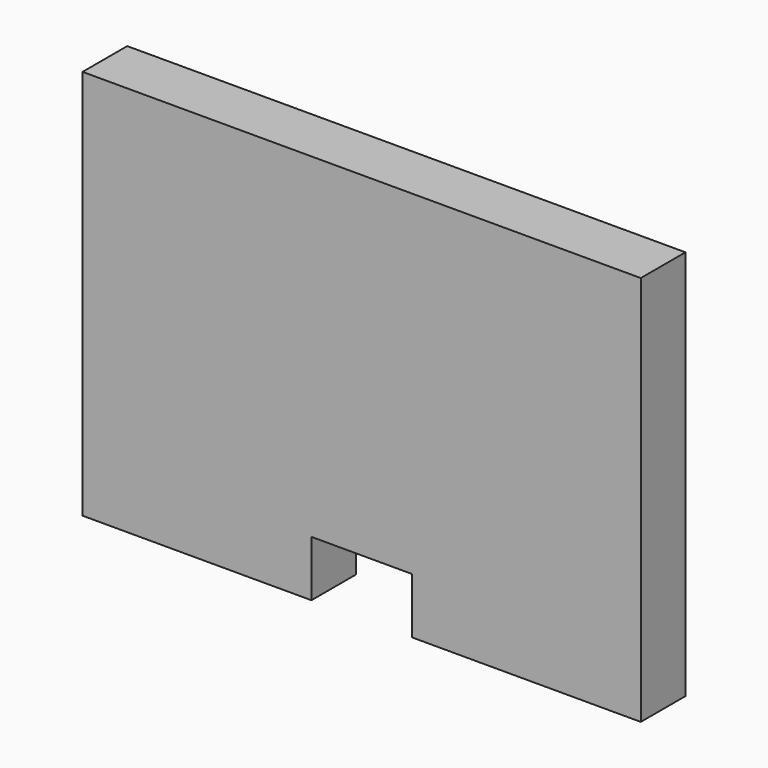
from build123d import *

# Parameters (mm, degrees)
F0_W     = 100
F0_H     = 70
F1_DEPTH = 10
F3_DEPTH = 10


with BuildPart() as f1:
    # F0 (on Front) → F1 (new body)
    with BuildSketch(Plane.XZ):
        with Locations((0, 35)):
            Rectangle(F0_W, F0_H)
    extrude(amount=F1_DEPTH)

    # F2 (on face) → F3 (cut, through all)
    with BuildSketch(Plane(origin=(0, 0, 0), x_dir=(-1, 0, 0), z_dir=(0, 1, 0))):
        with BuildLine():
            ThreePointArc((-3.250213, 6.5), (-3.603767, 6.646447), (-3.750213, 7))
            Line((-3.750213, 7), (-3.750213, 8.538201))
            ThreePointArc((-3.750213, 8.538201), (-3.72833, 8.684503), (-3.664596, 8.817999))
            Line((-3.664596, 8.817999), (-3.015177, 9.779797))
            ThreePointArc((-3.015177, 9.779797), (-2.835422, 9.941531), (-2.600794, 10))
            Line((-2.600794, 10), (-9, 10))
            Line((-9, 10), (-9, 0))
            Line((-9, 0), (9, 0))
            Line((9, 0), (9, 10))
            Line((9, 10), (2.400367, 10))
            ThreePointArc((2.400367, 10), (2.634996, 9.941531), (2.814751, 9.779797))
            Line((2.814751, 9.779797), (3.46417, 8.817999))
            ThreePointArc((3.46417, 8.817999), (3.527904, 8.684503), (3.549787, 8.538201))
            Line((3.549787, 8.538201), (3.549787, 7))
            ThreePointArc((3.549787, 7), (3.40334, 6.646447), (3.049787, 6.5))
            Line((3.049787, 6.5), (-3.250213, 6.5))
        make_face()
        with BuildLine():
            Line((-3.750213, 8.538201), (-3.750213, 7))
            ThreePointArc((-3.750213, 7), (-3.603767, 6.646447), (-3.250213, 6.5))
            Line((-3.250213, 6.5), (3.049787, 6.5))
            ThreePointArc((3.049787, 6.5), (3.40334, 6.646447), (3.549787, 7))
            Line((3.549787, 7), (3.549787, 8.538201))
            ThreePointArc((3.549787, 8.538201), (3.527904, 8.684503), (3.46417, 8.817999))
            Line((3.46417, 8.817999), (2.814751, 9.779797))
            ThreePointArc((2.814751, 9.779797), (2.634996, 9.941531), (2.400367, 10))
            Line((2.400367, 10), (0, 10))
            Line((0, 10), (-2.600794, 10))
            ThreePointArc((-2.600794, 10), (-2.835422, 9.941531), (-3.015177, 9.779797))
            Line((-3.015177, 9.779797), (-3.664596, 8.817999))
            ThreePointArc((-3.664596, 8.817999), (-3.72833, 8.684503), (-3.750213, 8.538201))
        make_face()
    extrude(amount=-F3_DEPTH, mode=Mode.SUBTRACT)


solid = f1.part
